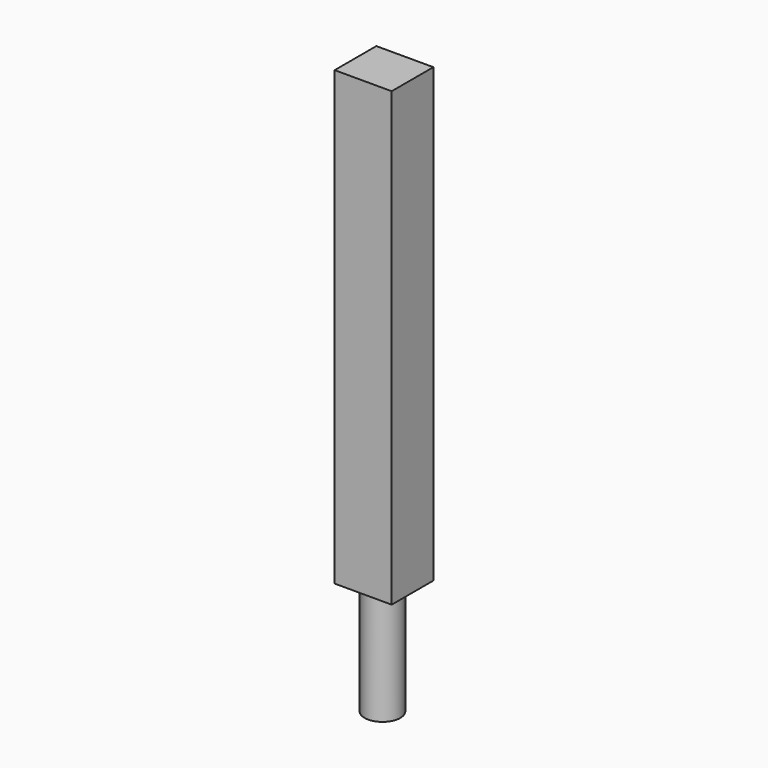
from build123d import *

# Parameters (mm, degrees)
F0_W     = 12.821327
F0_H     = 11.711787
F1_DEPTH = 101.6
F2_R     = 4.01377
F3_DEPTH = 25.4


with BuildPart() as f1:
    # F0 (on Top) → F1 (new body)
    with BuildSketch(Plane.XY):
        with Locations((6.410664, -5.855893)):
            Rectangle(F0_W, F0_H)
    extrude(amount=F1_DEPTH)

    # F2 (on Top) → F3 (join)
    with BuildSketch(Plane.XY):
        with Locations((6.410663, -6.287381)):
            Circle(F2_R)
    extrude(amount=-F3_DEPTH)


solid = f1.part
